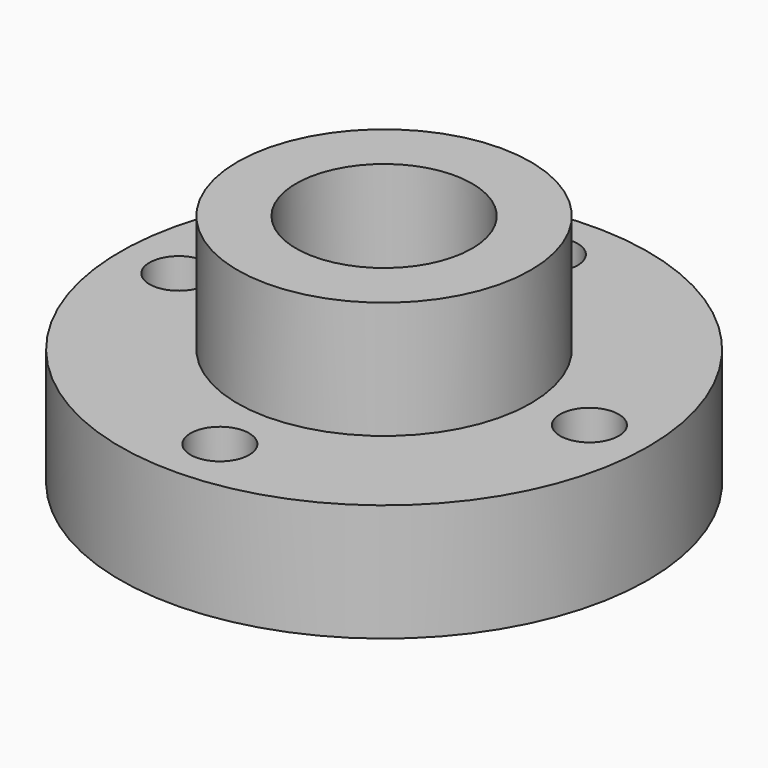
from build123d import *

# Parameters (mm, degrees)
F0_R     = 28.575
F1_DEPTH = 12.7
F2_R     = 15.875
F3_DEPTH = 12.7
F4_R     = 9.525
F5_DEPTH = 25.401
F6_R     = 3.175
F7_DEPTH = 12.701


with BuildPart() as f1:
    # F0 (on Top) → F1 (new body)
    with BuildSketch(Plane.XY):
        Circle(F0_R)
    extrude(amount=F1_DEPTH)

    # F2 (on face) → F3 (join)
    with BuildSketch(Plane.XY.offset(12.7)):
        Circle(F2_R)
    extrude(amount=F3_DEPTH)

    # F4 (on face) → F5 (cut, through all)
    with BuildSketch(Plane.XY.offset(25.4)):
        Circle(F4_R)
    extrude(amount=-F5_DEPTH, mode=Mode.SUBTRACT)

    # F6 (on face) → F7 (cut, through all)
    with BuildSketch(Plane.XY.offset(12.7)):
        with Locations((0, 22.225)):
            Circle(F6_R)
        with Locations((22.225, 0)):
            Circle(F6_R)
        with Locations((-22.225, 0)):
            Circle(F6_R)
        with Locations((0, -22.225)):
            Circle(F6_R)
    extrude(amount=-F7_DEPTH, mode=Mode.SUBTRACT)


solid = f1.part
